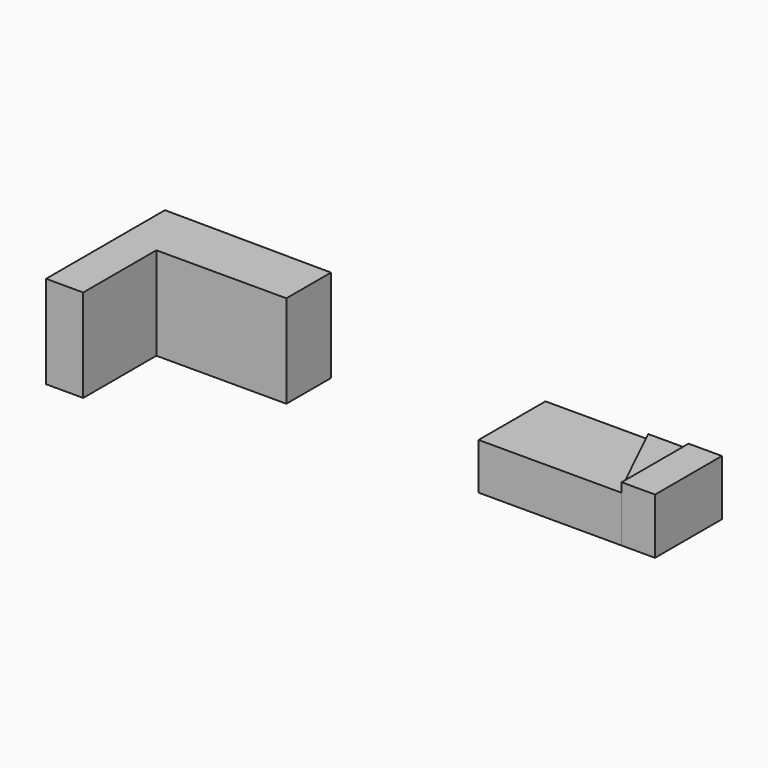
from build123d import *

# Parameters (mm, degrees)
F1_DEPTH = 1000
F2_DEPTH = 500
F0_W     = 359.452391
F0_H     = 900
F3_DEPTH = 600
F4_DEPTH = 550


with BuildPart() as f1:
    # F0 (on Top) → F1 (new body)
    with BuildSketch(Plane.XY):
        Polygon((1708.273513, 3910.653904), (-91.658437, 3926.305628), (-91.658437, 2326.305628), (308.341563, 2326.305628), (308.341563, 3310.653904), (1708.273513, 3310.653904), align=None)
    extrude(amount=F1_DEPTH)


with BuildPart() as f2:
    # F0 (on Top) → F2 (new body)
    with BuildSketch(Plane.XY):
        Polygon((3981.425524, 3956.305647), (3981.425524, 3056.305647), (5521.973133, 3056.305647), (5088.452339, 3956.305647), align=None)
    extrude(amount=F2_DEPTH)


with BuildPart() as f3:
    # F0 (on Top) → F3 (new body)
    with BuildSketch(Plane.XY):
        with Locations((5701.699328, 3506.305647)):
            Rectangle(F0_W, F0_H)
    extrude(amount=F3_DEPTH)


with BuildPart() as f4:
    # F0 (on Top) → F4 (new body)
    with BuildSketch(Plane.XY):
        Polygon((5088.452339, 3956.305647), (5521.973133, 3056.305647), (5521.973133, 3956.305647), align=None)
    extrude(amount=F4_DEPTH)


solid = Compound([f1.part, f2.part, f3.part, f4.part])
